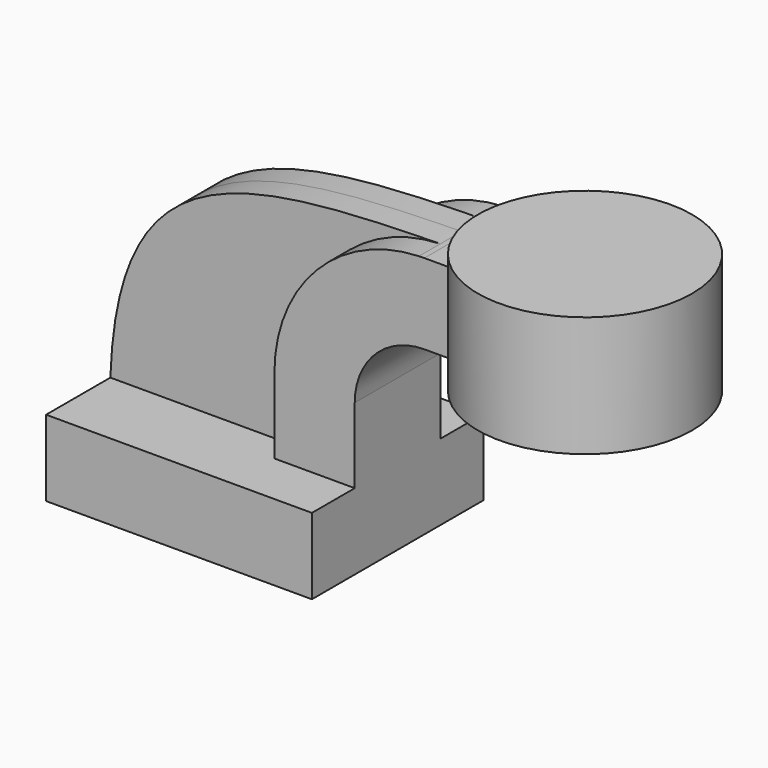
from build123d import *

# Parameters (mm, degrees)
F1_DEPTH = 25.4
F0_W     = 25.4
F0_H     = 19.05
F2_DEPTH = 12.7
F4_DEPTH = 6.35


with BuildPart() as f1:
    # F0 (on Front) → F1 (new body, symmetric)
    with BuildSketch(Plane.XZ):
        Polygon((31.5217984643, -9.0189850047), (31.5217984643, 9.0189850047), (12.4717984643, 9.0189850047), (-31.5217984643, 9.0189850047), (-31.5217984643, -9.0189850047), align=None)
    extrude(amount=F1_DEPTH, both=True)

    # F0 (on Front) → F2 (join, symmetric)
    with BuildSketch(Plane.XZ):
        with BuildLine():
            Line((12.4717984643, 9.0189850047), (31.5217984643, 9.0189850047))
            Line((31.5217984643, 9.0189850047), (31.5217984643, 26.8712149953))
            ThreePointArc((31.5217984643, 26.8712149953), (36.3574655069, 38.5455479527), (48.0317984643, 43.3812149953))
            Line((48.0317984643, 43.3812149953), (50.5717984643, 43.3812149953))
            Line((50.5717984643, 43.3812149953), (50.5717984643, 62.4312149953))
            Line((50.5717984643, 62.4312149953), (48.0317984643, 62.4312149953))
            add(Edge.make_bspline(
                [(46.7575546459, 62.4083772721), (47.1808590375, 62.4161488041), (47.6056092378, 62.4237507503), (48.0317984643, 62.4312149953)],
                knots=[94.9706554632, 94.9706554632, 94.9706554632, 94.9706554632, 95.8208802759, 95.8208802759, 95.8208802759, 95.8208802759], degree=3))
            ThreePointArc((46.7575546459, 62.4083772721), (22.4405332535, 51.5613090597), (12.4717984643, 26.8712149953))
            Line((12.4717984643, 26.8712149953), (12.4717984643, 9.0189850047))
        make_face()
        with Locations((63.2717984643, 52.9062149953)):
            Rectangle(F0_W, F0_H)
    extrude(amount=F2_DEPTH, both=True)

    # F0 (on Front) → F3 (revolve)
    with BuildSketch(Plane.XZ):
        Polygon((75.9717984643, 62.4312149953), (75.9717984643, 43.3812149953), (75.9717984643, 38.6187149953), (101.3717984643, 38.6187149953), (101.3717984643, 67.1937149953), (75.9717984643, 67.1937149953), align=None)
    revolve(axis=Axis((75.9717984643, 0, 52.9062149953), (0, 0, -1)))

    # F0 (on Front) → F4 (join, symmetric)
    with BuildSketch(Plane.XZ):
        with BuildLine():
            Line((-31.5217984643, 9.0189850047), (12.4717984643, 9.0189850047))
            Line((12.4717984643, 9.0189850047), (12.4717984643, 26.8712149953))
            ThreePointArc((12.4717984643, 26.8712149953), (22.4405332535, 51.5613090597), (46.7575546459, 62.4083772721))
            add(Edge.make_bspline(
                [(-31.5217984643, 9.0189850047), (-29.7697852659, 58.5562793016), (-0.5258166747, 61.5402921774), (46.7575546459, 62.4083772721)],
                knots=[0, 0, 0, 0, 94.9706554632, 94.9706554632, 94.9706554632, 94.9706554632], degree=3))
        make_face()
    extrude(amount=F4_DEPTH, both=True)


solid = f1.part
